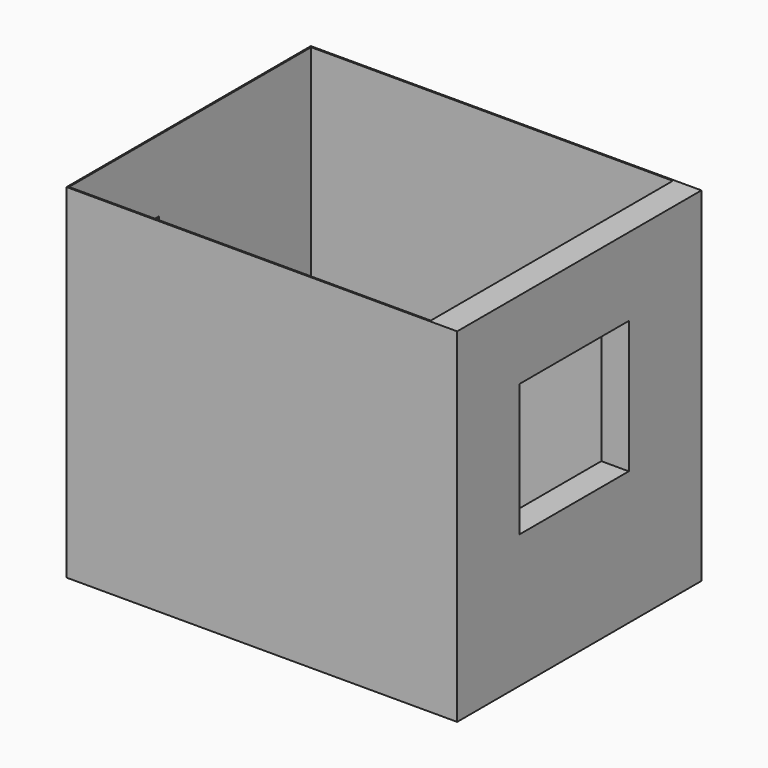
from build123d import *

# Parameters (mm, degrees)
F0_W     = 2840
F0_H     = 2220
F1_DEPTH = 2500
F2_T     = -10
F3_DEPTH = 190
F4_W     = 768
F4_H     = 1980
F5_DEPTH = 25
F6_W     = 993
F6_H     = 963
F7_DEPTH = 220


with BuildPart() as f1:
    # F0 (on Top) → F1 (new body)
    with BuildSketch(Plane.XY):
        with Locations((-1067.755253911, -331.6014169445)):
            Rectangle(F0_W, F0_H)
    extrude(amount=F1_DEPTH)

    # F2
    f2_openings = [f1.faces().sort_by_distance(p)[0] for p in [
        (-1067.755254, -331.601417, 2500),
    ]]
    offset(amount=F2_T, openings=f2_openings)

    # F3 (add): a face of the model
    f3_faces = [f1.faces().sort_by_distance(p)[0] for p in [
        (342.244746089, -331.6014169445, 1255),
    ]]
    extrude(f3_faces, amount=F3_DEPTH)

    # F4 (on face) → F5 (cut)
    with BuildSketch(Plane(origin=(-2487.755253911, 0, 0), x_dir=(0, -1, 0), z_dir=(-1, 0, 0))):
        with Locations((997.6014169445, 990)):
            Rectangle(F4_W, F4_H)
    extrude(amount=-F5_DEPTH, mode=Mode.SUBTRACT)

    # F6 (on face) → F7 (cut)
    with BuildSketch(Plane(origin=(152.244746089, 0, 0), x_dir=(0, -1, 0), z_dir=(-1, 0, 0))):
        with Locations((378.1014169445, 1451.5)):
            Rectangle(F6_W, F6_H)
    extrude(amount=-F7_DEPTH, mode=Mode.SUBTRACT)


solid = f1.part
